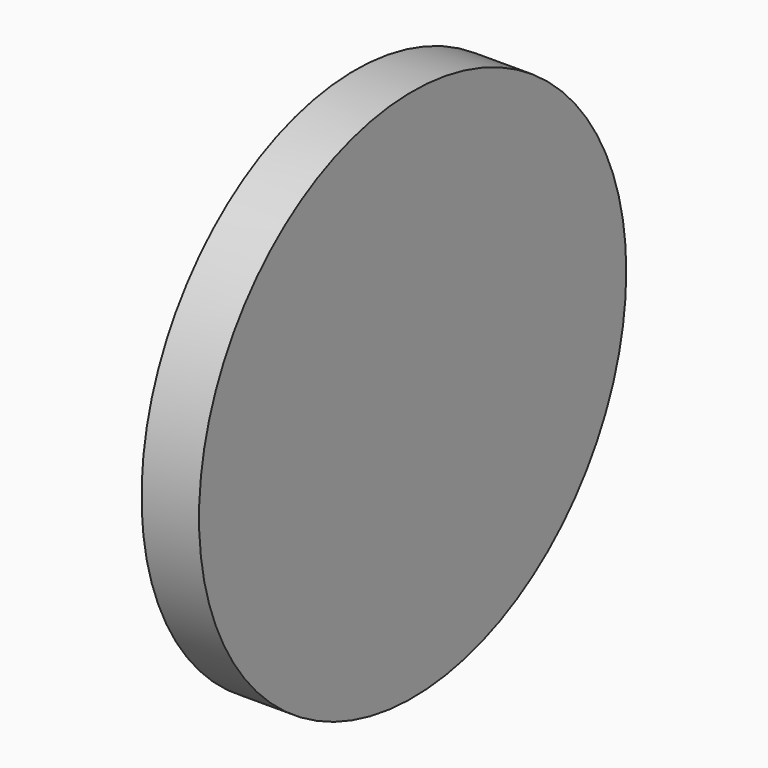
from build123d import *

# Parameters (mm, degrees)
F0_R     = 26.47426
F0_R_2   = 22.172227
F1_DEPTH = 5.7


with BuildPart() as f1:
    # F0 (on Right) → F1 (new body)
    with BuildSketch(Plane.YZ):
        with Locations((-40.772181, 28.324598)):
            Circle(F0_R)
        with Locations((-40.772181, 28.324598)):
            Circle(F0_R_2, mode=Mode.SUBTRACT)
        with Locations((-40.772181, 28.324598)):
            Circle(F0_R_2)
    extrude(amount=F1_DEPTH)


solid = f1.part
